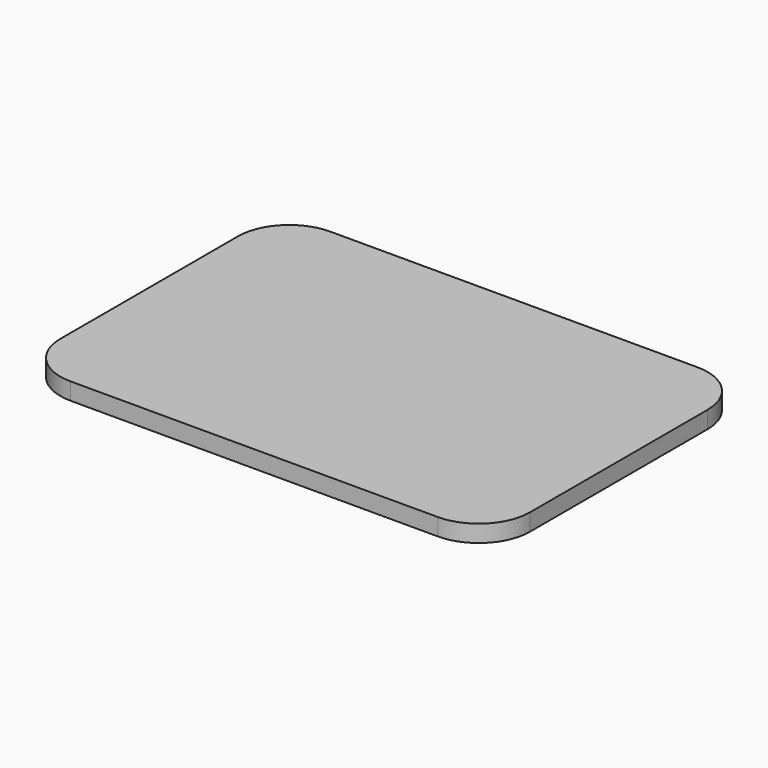
from build123d import *

# Parameters (mm, degrees)
CYLINDER_R     = 3
CYLINDER_DEPTH = 1
BOX_W          = 55
BOX_H          = 38
BOX_DEPTH      = 2
FILLET_R       = 6


with BuildPart() as cilindro:
    # Cylinder → Cylinder (new body)
    with BuildSketch(Plane(origin=(4, 16, 0), x_dir=(1, 0, 0), z_dir=(0, 0, 1))):
        Circle(CYLINDER_R)
    extrude(amount=CYLINDER_DEPTH)


with BuildPart() as cut002:
    # Box → Box (new body)
    with BuildSketch(Plane(origin=(-23.4593, -11.5423, 0), x_dir=(1, 0, 0), z_dir=(0, 0, 1))):
        with Locations((27.5, 19)):
            Rectangle(BOX_W, BOX_H)
    extrude(amount=BOX_DEPTH)

    # Fillet
    fillet_edges = [cut002.edges().sort_by_distance(p)[0] for p in [
        (-23.4593, -11.5423, 1),
        (-23.4593, 26.4577, 1),
        (31.5407, -11.5423, 1),
        (31.5407, 26.4577, 1),
    ]]
    fillet(fillet_edges, radius=FILLET_R)

    # Cut002: cut Cilindro
    add(cilindro.part, mode=Mode.SUBTRACT)


solid = cut002.part
